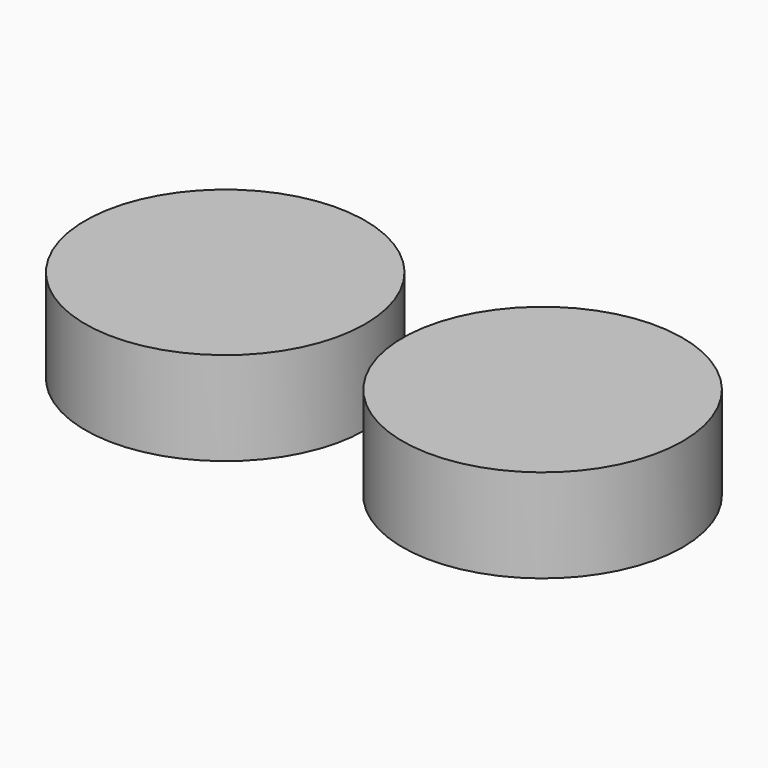
from build123d import *

# Parameters (mm, degrees)
SKETCH001_R  = 15
PAD001_DEPTH = 10
SKETCH_R     = 15
PAD_DEPTH    = 10


with BuildPart() as r_15_copy:
    # Sketch001 → Pad001 (new body)
    with BuildSketch(Plane.XY):
        with Locations((-16, 0)):
            Circle(SKETCH001_R)
    extrude(amount=PAD001_DEPTH)


with BuildPart() as r_15_copy_1:
    # Body001 placement: moved
    add(r_15_copy.part.moved(Location((33, 0, -10))))


with BuildPart() as fusion:
    # Sketch → Pad (new body)
    with BuildSketch(Plane.XY):
        with Locations((-16, 0)):
            Circle(SKETCH_R)
    extrude(amount=PAD_DEPTH)


with BuildPart() as fusion_1:
    # Body placement: moved
    add(fusion.part.moved(Location((-1, 0, -10))))

    # Fusion: union R_15_copy
    add(r_15_copy_1.part)


solid = fusion_1.part
